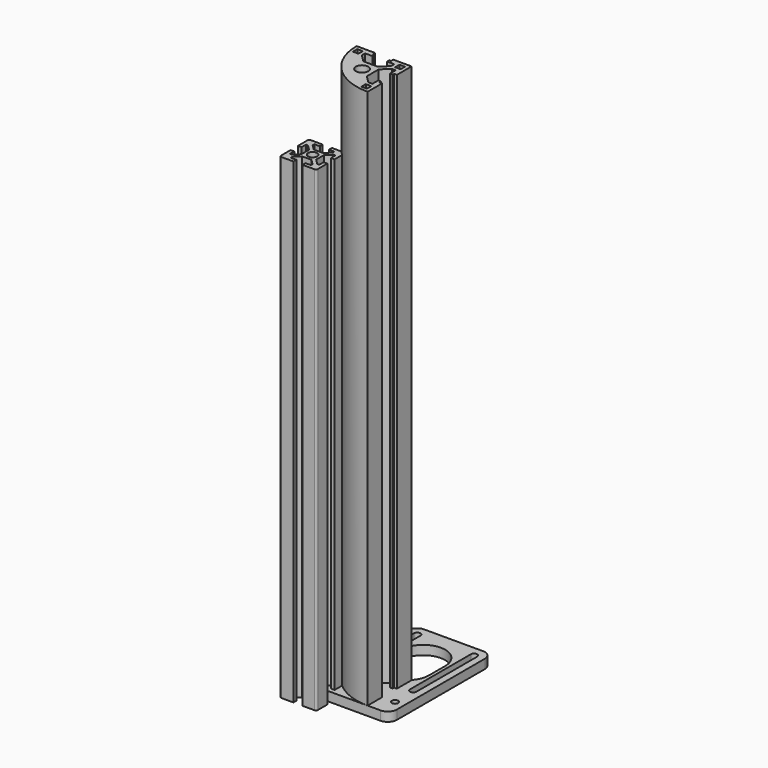
from build123d import *

# Parameters (mm, degrees)
SKETCH_R     = 1.75
PAD_DEPTH    = 5
SKETCH003_R  = 3.4
SKETCH003_W  = 3
SKETCH003_H  = 3
PAD001_DEPTH = 300
PAD002_DEPTH = 6
SKETCH005_R  = 2.5
PAD003_DEPTH = 260


with BuildPart() as nemamount:
    # Sketch → Pad (new body)
    with BuildSketch(Plane.XY):
        with BuildLine():
            Line((5, 70), (37, 70))
            ThreePointArc((42, 65), (40.535534, 68.535534), (37, 70))
            Line((42, 65), (42, 5))
            ThreePointArc((37, 0), (40.535534, 1.464466), (42, 5))
            Line((37, 0), (5, 0))
            ThreePointArc((0, 5), (1.464466, 1.464466), (5, 0))
            Line((0, 5), (0, 65))
            ThreePointArc((5, 70), (1.464466, 68.535534), (0, 65))
        make_face()
        with Locations((5, 10)):
            Circle(SKETCH_R, mode=Mode.SUBTRACT)
        with Locations((37, 10)):
            Circle(SKETCH_R, mode=Mode.SUBTRACT)
        with Locations((21, 10)):
            Circle(SKETCH_R, mode=Mode.SUBTRACT)
        with BuildLine():
            ThreePointArc((7.25, 64.5), (5.5, 66.25), (3.75, 64.5))
            Line((3.75, 64.5), (3.75, 23))
            ThreePointArc((3.75, 23), (5.5, 21.25), (7.25, 23))
            Line((7.25, 64.5), (7.25, 23))
        make_face(mode=Mode.SUBTRACT)
        with BuildLine():
            ThreePointArc((38.25, 64.5), (36.5, 66.25), (34.75, 64.5))
            Line((34.75, 64.5), (34.75, 23))
            ThreePointArc((34.75, 23), (36.5, 21.25), (38.25, 23))
            Line((38.25, 64.5), (38.25, 23))
        make_face(mode=Mode.SUBTRACT)
        with BuildLine():
            ThreePointArc((33, 49.25), (21, 61.25), (9, 49.25))
            Line((9, 49.25), (9, 38.25))
            ThreePointArc((9, 38.25), (21, 26.25), (33, 38.25))
            Line((33, 49.25), (33, 38.25))
        make_face(mode=Mode.SUBTRACT)
    extrude(amount=PAD_DEPTH)


with BuildPart() as profile3030r:
    # Sketch003 → Pad001 (new body)
    with BuildSketch(Plane.XY):
        with BuildLine():
            ThreePointArc((0, 30), (8.786797, 8.786797), (30, 0))
            Line((30, 0), (30, 10))
            Line((28.5, 10), (30, 10))
            Line((28.5, 11), (28.5, 10))
            Line((27, 11), (28.5, 11))
            Line((27, 7), (27, 11))
            Line((24.8, 7), (27, 7))
            Line((20.8, 11), (24.8, 7))
            Line((20.8, 19), (20.8, 11))
            Line((24.8, 23), (20.8, 19))
            Line((27, 23), (24.8, 23))
            Line((27, 19), (27, 23))
            Line((28.5, 19), (27, 19))
            Line((28.5, 20), (28.5, 19))
            Line((30, 20), (28.5, 20))
            Line((30, 30), (30, 20))
            Line((20, 30), (30, 30))
            Line((20, 28.5), (20, 30))
            Line((19, 28.5), (20, 28.5))
            Line((19, 27), (19, 28.5))
            Line((23, 27), (19, 27))
            Line((23, 24.8), (23, 27))
            Line((19, 20.8), (23, 24.8))
            Line((11, 20.8), (19, 20.8))
            Line((7, 24.8), (11, 20.8))
            Line((7, 27), (7, 24.8))
            Line((11, 27), (7, 27))
            Line((11, 28.5), (11, 27))
            Line((10, 28.5), (11, 28.5))
            Line((10, 30), (10, 28.5))
            Line((0, 30), (10, 30))
        make_face()
        with Locations((15, 15)):
            Circle(SKETCH003_R, mode=Mode.SUBTRACT)
        with Locations((3.5, 26.5)):
            Rectangle(SKETCH003_W, SKETCH003_H, mode=Mode.SUBTRACT)
        with Locations((26.5, 26.5)):
            Rectangle(SKETCH003_W, SKETCH003_H, mode=Mode.SUBTRACT)
        with Locations((26.5, 3.5)):
            Rectangle(SKETCH003_W, SKETCH003_H, mode=Mode.SUBTRACT)
    extrude(amount=PAD001_DEPTH)


with BuildPart() as gt2belt:
    # Sketch004 → Pad002 (new body)
    with BuildSketch(Plane.XY):
        with BuildLine():
            Line((-1, 0), (0, 0))
            Line((0, 0), (1, 0))
            Line((1, 0), (1, -0.63))
            Line((0.741036, -0.63), (1, -0.63))
            ThreePointArc((0.741036, -0.63), (0.641799, -0.667519), (0.592206, -0.761308))
            ThreePointArc((0.509091, -1.053295), (0.561793, -0.910474), (0.592206, -0.761308))
            ThreePointArc((-0.509091, -1.053295), (0, -1.38), (0.509091, -1.053295))
            ThreePointArc((-0.592206, -0.761308), (-0.561793, -0.910474), (-0.509091, -1.053295))
            ThreePointArc((-0.592206, -0.761308), (-0.641799, -0.667519), (-0.741036, -0.63))
            Line((-1, -0.63), (-0.741036, -0.63))
            Line((-1, 0), (-1, -0.63))
        make_face()
    extrude(amount=PAD002_DEPTH)


with BuildPart() as profile2020:
    # Sketch005 → Pad003 (new body)
    with BuildSketch(Plane.XY):
        with BuildLine():
            Line((-4, -2.585786), (-4, 2.585787))
            Line((-4, 2.585787), (-6.914214, 5.500001))
            Line((-6.914214, 5.500001), (-8, 5.500001))
            Line((-8, 5.500001), (-8, 2.500001))
            Line((-8, 2.500001), (-10, 2.500001))
            Line((-10, 2.500001), (-10, 9.000001))
            ThreePointArc((-9, 10), (-9.707107, 9.707107), (-10, 9.000001))
            Line((-2.5, 10), (-9, 10))
            Line((-2.5, 8), (-2.5, 10))
            Line((-5.5, 8), (-2.5, 8))
            Line((-5.5, 6.914214), (-5.5, 8))
            Line((-2.585786, 4), (-5.5, 6.914214))
            Line((2.585786, 4), (-2.585786, 4))
            Line((2.585786, 4), (5.5, 6.914214))
            Line((5.5, 6.914214), (5.5, 8))
            Line((5.5, 8), (2.5, 8))
            Line((2.5, 8), (2.5, 10))
            Line((2.5, 10), (9, 10))
            ThreePointArc((10, 9.000001), (9.707107, 9.707107), (9, 10))
            Line((10, 2.500001), (10, 9.000001))
            Line((8, 2.500001), (10, 2.500001))
            Line((8, 5.500001), (8, 2.500001))
            Line((6.914214, 5.500001), (8, 5.500001))
            Line((4, 2.585787), (6.914214, 5.500001))
            Line((4, 2.585787), (4, -2.585786))
            Line((4, -2.585786), (6.914214, -5.500001))
            Line((6.914214, -5.500001), (8, -5.500001))
            Line((8, -5.500001), (8, -2.500001))
            Line((8, -2.500001), (10, -2.500001))
            Line((10, -2.500001), (10, -9.000001))
            ThreePointArc((9, -10), (9.707107, -9.707107), (10, -9.000001))
            Line((9, -10), (2.5, -10))
            Line((2.5, -10), (2.5, -8))
            Line((2.5, -8), (5.5, -8))
            Line((5.5, -8), (5.5, -6.914214))
            Line((5.5, -6.914214), (2.585786, -4))
            Line((2.585786, -4), (-2.585786, -4))
            Line((-2.585786, -4), (-5.5, -6.914214))
            Line((-5.5, -6.914214), (-5.5, -8))
            Line((-5.5, -8), (-2.5, -8))
            Line((-2.5, -8), (-2.5, -10))
            Line((-2.5, -10), (-9, -10))
            ThreePointArc((-10, -9.000001), (-9.707107, -9.707107), (-9, -10))
            Line((-10, -2.500001), (-10, -9.000001))
            Line((-8, -2.500001), (-10, -2.500001))
            Line((-8, -5.500001), (-8, -2.500001))
            Line((-6.914214, -5.500001), (-8, -5.500001))
            Line((-4, -2.585786), (-6.914214, -5.500001))
        make_face()
        Circle(SKETCH005_R, mode=Mode.SUBTRACT)
    extrude(amount=PAD003_DEPTH)


solid = Compound([nemamount.part, profile3030r.part, gt2belt.part, profile2020.part])
